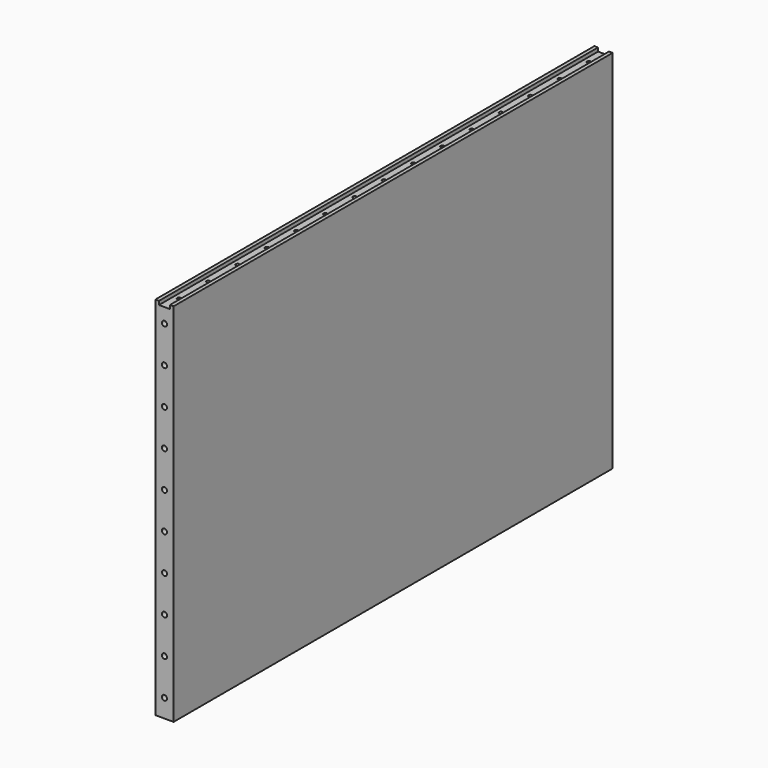
from build123d import *

# Parameters (mm, degrees)
F0_W     = 1500
F0_H     = 1000
F1_DEPTH = 50
F3_D     = 10.3
F3_DEPTH = 25.25
F3_TIP   = 3.094432188
F4_W     = 30
F4_H     = 10
F5_DEPTH = 1500.001
F7_D     = 14
F7_DEPTH = 31
F7_TIP   = 4.2060243332
F9_D     = 14
F9_DEPTH = 31
F9_TIP   = 4.2060243332


with BuildPart() as f1:
    # F0 (on Right) → F1 (new body)
    with BuildSketch(Plane.YZ):
        Rectangle(F0_W, F0_H)
    extrude(amount=F1_DEPTH)

    # F3
    with Locations(Plane.XY.offset(500)):
        with Locations((25, -700), (25, -600), (25, -500), (25, -400), (25, -300), (25, -200), (25, -100), (25, 0), (25, 200), (25, 100), (25, 300), (25, 400), (25, 500), (25, 700), (25, 600)):
            Hole(F3_D / 2, depth=F3_DEPTH)
            with Locations((0, 0, -(F3_DEPTH + F3_TIP / 2))):  # 118° drill point
                Cone(0, F3_D / 2, F3_TIP, mode=Mode.SUBTRACT)

    # F4 (on face) → F5 (cut, through all)
    with BuildSketch(Plane.XZ.offset(750)):
        with Locations((25, 495)):
            Rectangle(F4_W, F4_H)
    extrude(amount=-F5_DEPTH, mode=Mode.SUBTRACT)

    # F7
    with Locations(Plane.XZ.offset(750)):
        with Locations((25, -450), (25, -350), (25, -250), (25, -150), (25, -50), (25, 50), (25, 450), (25, 350), (25, 250), (25, 150)):
            Hole(F7_D / 2, depth=F7_DEPTH)
            with Locations((0, 0, -(F7_DEPTH + F7_TIP / 2))):  # 118° drill point
                Cone(0, F7_D / 2, F7_TIP, mode=Mode.SUBTRACT)

    # F9
    with Locations(Plane(origin=(0, 750, 0), x_dir=(-1, 0, 0), z_dir=(0, 1, 0))):
        with Locations((-25, 450), (-25, 350), (-25, 250), (-25, 150), (-25, 50), (-25, -50), (-25, -150), (-25, -250), (-25, -350), (-25, -450)):
            Hole(F9_D / 2, depth=F9_DEPTH)
            with Locations((0, 0, -(F9_DEPTH + F9_TIP / 2))):  # 118° drill point
                Cone(0, F9_D / 2, F9_TIP, mode=Mode.SUBTRACT)


solid = f1.part
